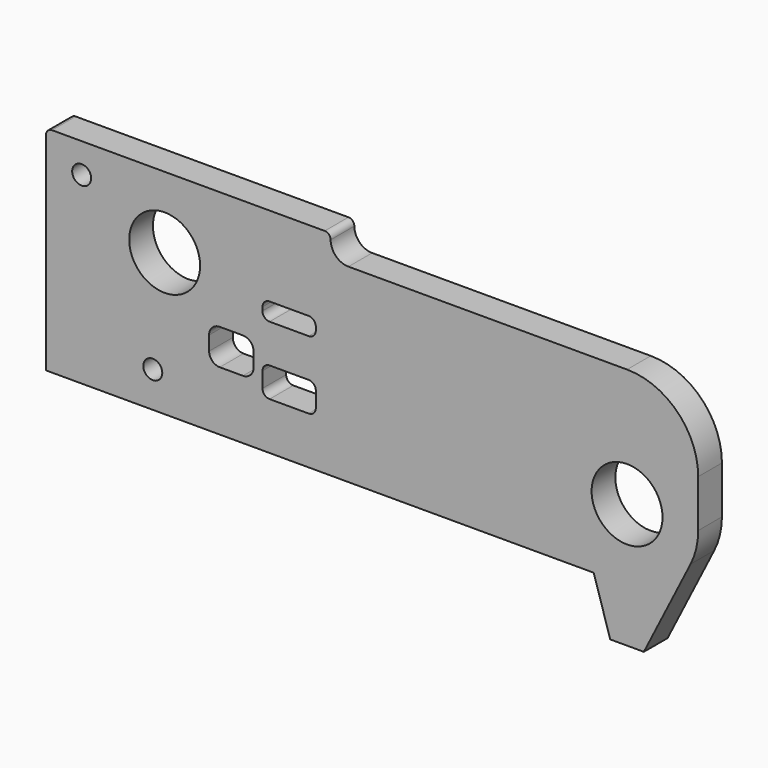
from build123d import *

# Parameters (mm, degrees)
SKETCH041_R   = 1.6
SKETCH041_R_2 = 5.98
PAD_DEPTH     = 5


with BuildPart() as part:
    # Sketch041 → Pad (new body)
    with BuildSketch(Plane.XZ):
        with BuildLine():
            Line((75.17, -33), (80.83, -33))
            Line((80.83, -33), (88.709309, -17.413936))
            ThreePointArc((88.709309, -17.413936), (89.672868, -14.782831), (90, -12))
            Line((90, -12), (90, -4))
            ThreePointArc((90, -4), (86.485281, 4.485281), (78, 8))
            Line((78, 8), (31, 8))
            ThreePointArc((28, 11), (28.87868, 8.87868), (31, 8))
            ThreePointArc((28, 11), (27.707107, 11.707107), (27, 12))
            Line((27, 12), (-19, 12))
            ThreePointArc((-19, 12), (-19.707107, 11.707107), (-20, 11))
            Line((-20, 11), (-20, -24))
            Line((-20, -24), (72.36, -24))
            Line((72.36, -24), (75.17, -33))
        make_face()
        with Locations((-14, 7)):
            Circle(SKETCH041_R, mode=Mode.SUBTRACT)
        with Locations((-2, -18)):
            Circle(SKETCH041_R, mode=Mode.SUBTRACT)
        Circle(SKETCH041_R_2, mode=Mode.SUBTRACT)
        with Locations((78, -12)):
            Circle(SKETCH041_R_2, mode=Mode.SUBTRACT)
        with BuildLine():
            ThreePointArc((7.5, -12.2), (8.027208, -13.472792), (9.3, -14))
            Line((9.3, -14), (13.2, -14))
            ThreePointArc((13.2, -14), (14.472792, -13.472792), (15, -12.2))
            Line((15, -12.2), (15, -9.8))
            ThreePointArc((15, -9.8), (14.472792, -8.527208), (13.2, -8))
            Line((13.2, -8), (9.3, -8))
            ThreePointArc((9.3, -8), (8.027208, -8.527208), (7.5, -9.8))
            Line((7.5, -9.8), (7.5, -12.2))
        make_face(mode=Mode.SUBTRACT)
        with BuildLine():
            Line((17.7, -4.5), (24.3, -4.5))
            ThreePointArc((24.3, -4.5), (25.148528, -4.148528), (25.5, -3.3))
            Line((25.5, -3.3), (25.5, -2.7))
            ThreePointArc((25.5, -2.7), (25.148528, -1.851472), (24.3, -1.5))
            Line((24.3, -1.5), (17.7, -1.5))
            ThreePointArc((17.7, -1.5), (16.851472, -1.851472), (16.5, -2.7))
            Line((16.5, -2.7), (16.5, -3.3))
            ThreePointArc((16.5, -3.3), (16.851472, -4.148528), (17.7, -4.5))
        make_face(mode=Mode.SUBTRACT)
        with BuildLine():
            Line((17.7, -16), (24.3, -16))
            ThreePointArc((24.3, -16), (25.148528, -15.648528), (25.5, -14.8))
            Line((25.5, -14.8), (25.5, -12.2))
            ThreePointArc((25.5, -12.2), (25.148528, -11.351472), (24.3, -11))
            Line((24.3, -11), (17.7, -11))
            ThreePointArc((17.7, -11), (16.851472, -11.351472), (16.5, -12.2))
            Line((16.5, -12.2), (16.5, -14.8))
            ThreePointArc((16.5, -14.8), (16.851472, -15.648528), (17.7, -16))
        make_face(mode=Mode.SUBTRACT)
    extrude(amount=PAD_DEPTH)


solid = part.part
